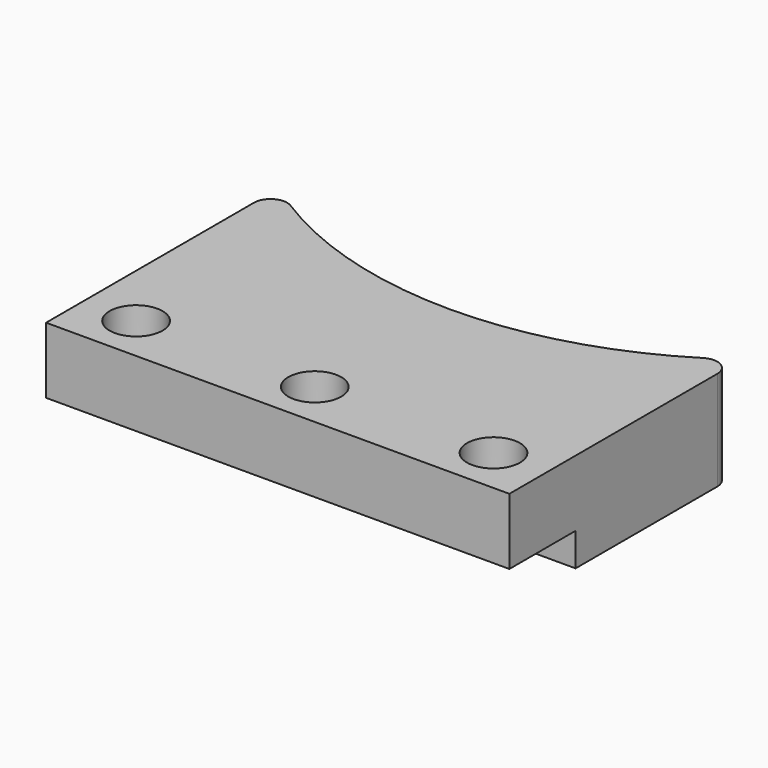
from build123d import *

# Parameters (mm, degrees)
F0_R     = 4
F1_DEPTH = 40
F2_W     = 12.5
F2_H     = 30
F3_DEPTH = 70
F4_R     = 2.5
F5_DEPTH = 25


with BuildPart() as f1:
    # F0 (on Top) → F1 (new body)
    with BuildSketch(Plane.XY):
        with BuildLine():
            Line((-35, 22), (-35, -22))
            Line((-35, -22), (35, -22))
            Line((35, -22), (35, 22))
            ThreePointArc((35, 22), (0, 10.4279927909), (-35, 22))
        make_face()
        with Locations((-27, -15)):
            Circle(F0_R, mode=Mode.SUBTRACT)
        with Locations((0, -15)):
            Circle(F0_R, mode=Mode.SUBTRACT)
        with Locations((27, -15)):
            Circle(F0_R, mode=Mode.SUBTRACT)
    extrude(amount=F1_DEPTH)

    # F2 (on face) → F3 (cut)
    with BuildSketch(Plane.YZ.offset(35)):
        with Locations((-15.75, 15)):
            Rectangle(F2_W, F2_H)
    extrude(amount=-F3_DEPTH, mode=Mode.SUBTRACT)

    # F4
    f4_edges = [f1.edges().sort_by_distance(p)[0] for p in [
        (35, 22, 20),
        (-35, 22, 20),
    ]]
    fillet(f4_edges, radius=F4_R)

    # F5 (cut): a face of the model
    f5_faces = [f1.faces().sort_by_distance(p)[0] for p in [
        (0, 2.4481548638, 0),
    ]]
    extrude(f5_faces, amount=-F5_DEPTH, mode=Mode.SUBTRACT)


solid = f1.part
